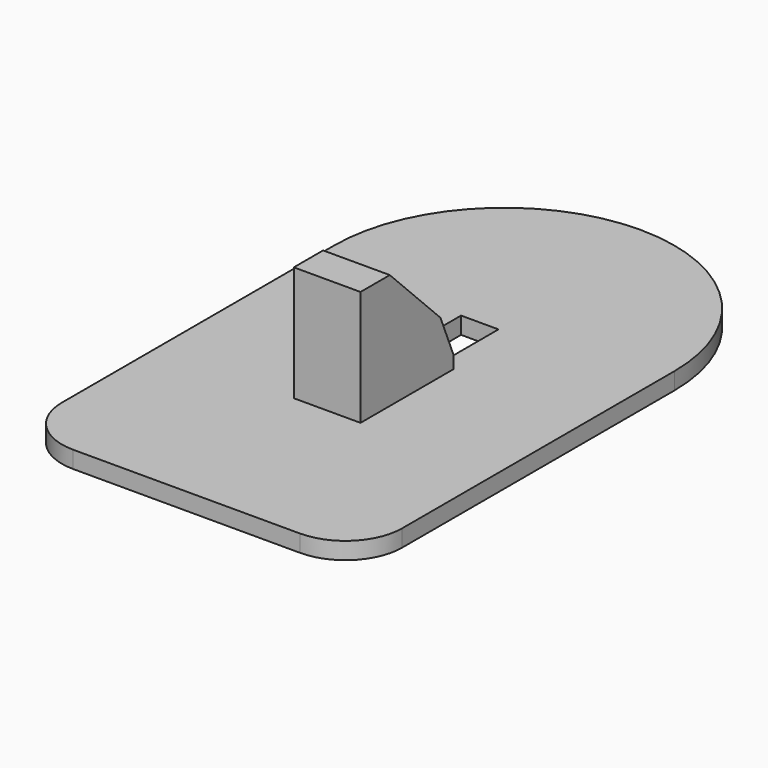
from build123d import *

# Parameters (mm, degrees)
F1_DEPTH = 15
F2_W     = 33
F2_H     = 58
F3_DEPTH = 15.001
F4_W     = 58.8
F4_H     = 102.2799882368
F5_DEPTH = 101.6
F6_SIZE  = 70
F7_SIZE  = 20


with BuildPart() as f1:
    # F0 (on Top) → F1 (new body)
    with BuildSketch(Plane.XY):
        with BuildLine():
            Line((-100, -250), (100, -250))
            ThreePointArc((100, -250), (135.3553390593, -235.3553390593), (150, -200))
            Line((150, -200), (150, 100))
            ThreePointArc((150, 100), (0, 250), (-150, 100))
            Line((-150, 100), (-150, -200))
            ThreePointArc((-150, -200), (-135.3553390593, -235.3553390593), (-100, -250))
        make_face()
    extrude(amount=F1_DEPTH)

    # F2 (on face) → F3 (cut, through all)
    with BuildSketch(Plane.XY.offset(15)):
        with Locations((0, 44)):
            Rectangle(F2_W, F2_H)
    extrude(amount=-F3_DEPTH, mode=Mode.SUBTRACT)

    # F4 (on face) → F5 (join)
    with BuildSketch(Plane.XY.offset(15)):
        with Locations((0, -44.0329860869)):
            Rectangle(F4_W, F4_H)
    extrude(amount=F5_DEPTH)

    # F6
    f6_edges = [f1.edges().sort_by_distance(p)[0] for p in [
        (0, 7.107008, 116.6),
    ]]
    chamfer(f6_edges, length=F6_SIZE)

    # F7
    f7_edges = [f1.edges().sort_by_distance(p)[0] for p in [
        (0, 7.107008, 46.6),
    ]]
    chamfer(f7_edges, length=F7_SIZE)


solid = f1.part
